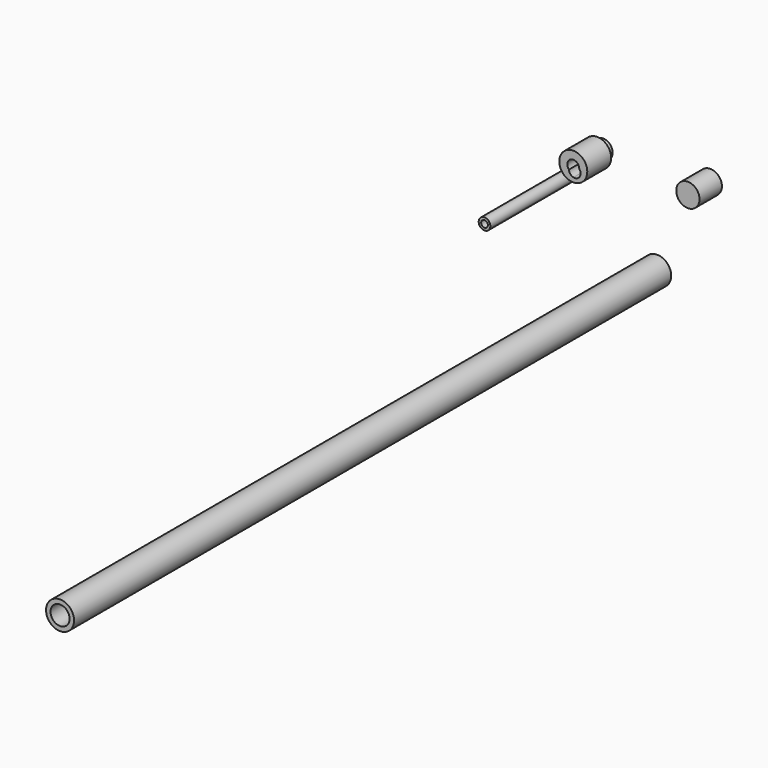
from build123d import *

# Parameters (mm, degrees)
F0_R     = 9.525
F0_R_2   = 6.477
F1_DEPTH = 508
F2_DEPTH = 19.05
F0_R_3   = 7.9248
F3_DEPTH = 6.35
F4_DEPTH = 5.588
F5_START = 5.08
F5_DEPTH = 20.32
F6_DEPTH = 6.35
F7_DEPTH = 5.588
F0_R_4   = 3.9624
F0_R_5   = 2.286
F8_DEPTH = 76.2


with BuildPart() as f1:
    # F0 (on Front) → F1 (new body)
    with BuildSketch(Plane.XZ):
        Circle(F0_R)
        Circle(F0_R_2, mode=Mode.SUBTRACT)
    extrude(amount=F1_DEPTH)


with BuildPart() as f2:
    # F0 (on Front) → F2 (new body)
    with BuildSketch(Plane.XZ):
        with BuildLine():
            ThreePointArc((-32.547757087, 55.8320304582), (-30.8912183046, 58.0386997075), (-30.3034840207, 60.7346370816))
            ThreePointArc((-30.3034840207, 60.7346370816), (-41.4096977129, 65.2647485143), (-36.6403404641, 54.2591534098))
            ThreePointArc((-36.6403404641, 54.2591534098), (-38.8124164864, 55.5783024206), (-39.7364239778, 57.9456381626))
            ThreePointArc((-39.7364239778, 57.9456381626), (-38.2810099309, 64.5114767648), (-32.7164840207, 60.7346370816))
            ThreePointArc((-32.7164840207, 60.7346370816), (-32.7167413759, 60.6889017907), (-32.7175134089, 60.6431722922))
            ThreePointArc((-32.7175134089, 60.6431722922), (-32.0480038214, 59.4632357327), (-31.815759049, 58.1266147176))
            ThreePointArc((-31.815759049, 58.1266147176), (-32.0031915992, 56.9223578875), (-32.547757087, 55.8320304582))
        make_face()
    extrude(amount=F2_DEPTH)

    # F3 (add): a face of the model
    f3_faces = [f2.faces().sort_by_distance(p)[0] for p in [
        (-31.6351399696, -19.05, 58.2727969972),
    ]]
    extrude(f3_faces, amount=F3_DEPTH)

    # F0 (on Front) → F4 (join)
    with BuildSketch(Plane.XZ):
        with BuildLine():
            ThreePointArc((-39.394098101, 59.7469845926), (-39.6708899318, 58.8663849751), (-39.7364239778, 57.9456381626))
            ThreePointArc((-39.7364239778, 57.9456381626), (-38.7633091915, 57.1871731506), (-37.6074454536, 56.7556634968))
            ThreePointArc((-37.6074454536, 56.7556634968), (-37.9658706012, 57.4635052515), (-38.0607601848, 58.2512263335))
            ThreePointArc((-38.0607601848, 58.2512263335), (-38.8661298443, 58.8754658957), (-39.394098101, 59.7469845926))
        make_face()
        with BuildLine():
            ThreePointArc((-38.0607601848, 58.2512263335), (-37.9658706012, 57.4635052515), (-37.6074454536, 56.7556634968))
            ThreePointArc((-37.6074454536, 56.7556634968), (-35.3225567891, 56.9411500067), (-33.5015540619, 58.3336551314))
            ThreePointArc((-33.5015540619, 58.3336551314), (-33.7094444319, 59.0993509785), (-34.1665357868, 59.7478693123))
            ThreePointArc((-34.1665357868, 59.7478693123), (-35.778159049, 58.1266147176), (-38.0607601848, 58.2512263335))
        make_face()
        with BuildLine():
            ThreePointArc((-33.5015540619, 58.3336551314), (-32.9321930525, 59.4282096539), (-32.7175134089, 60.6431722922))
            ThreePointArc((-32.7175134089, 60.6431722922), (-33.3828274746, 61.2830368074), (-34.1781357417, 61.7516028799))
            ThreePointArc((-34.1781357417, 61.7516028799), (-34.0348149682, 61.252070608), (-33.9864840207, 60.7346370816))
            ThreePointArc((-33.9864840207, 60.7346370816), (-34.0318655163, 60.2331071052), (-34.1665357868, 59.7478693123))
            ThreePointArc((-34.1665357868, 59.7478693123), (-33.7094444319, 59.0993509785), (-33.5015540619, 58.3336551314))
        make_face()
        with BuildLine():
            ThreePointArc((-32.7164840207, 60.7346370816), (-38.2810099309, 64.5114767648), (-39.7364239778, 57.9456381626))
            ThreePointArc((-39.7364239778, 57.9456381626), (-39.6708899318, 58.8663849751), (-39.394098101, 59.7469845926))
            ThreePointArc((-39.394098101, 59.7469845926), (-37.7828089924, 63.3426594456), (-34.1781357417, 61.7516028799))
            ThreePointArc((-34.1781357417, 61.7516028799), (-33.3828274746, 61.2830368074), (-32.7175134089, 60.6431722922))
            ThreePointArc((-32.7175134089, 60.6431722922), (-32.7167413759, 60.6889017907), (-32.7164840207, 60.7346370816))
        make_face()
    extrude(amount=F4_DEPTH)

    # F0 (on Front) → F5 (join)
    with BuildSketch(Plane.XZ.offset(F5_START)):
        with Locations((-36.7804840207, 60.7346370816)):
            Circle(F0_R)
        with BuildLine():
            ThreePointArc((-36.6403404641, 54.2591534098), (-41.4096977129, 65.2647485143), (-30.3034840207, 60.7346370816))
            ThreePointArc((-30.3034840207, 60.7346370816), (-30.8912183046, 58.0386997075), (-32.547757087, 55.8320304582))
            ThreePointArc((-32.547757087, 55.8320304582), (-34.3566799981, 54.4279648196), (-36.6403404641, 54.2591534098))
        make_face(mode=Mode.SUBTRACT)
    extrude(amount=F5_DEPTH)

    # F0 (on Front) → F6 (join)
    with BuildSketch(Plane.XZ):
        with BuildLine():
            ThreePointArc((-39.7364239778, 57.9456381626), (-38.8124164864, 55.5783024206), (-36.6403404641, 54.2591534098))
            ThreePointArc((-36.6403404641, 54.2591534098), (-34.4569124953, 54.688767056), (-32.547757087, 55.8320304582))
            ThreePointArc((-32.547757087, 55.8320304582), (-32.0031915992, 56.9223578875), (-31.815759049, 58.1266147176))
            ThreePointArc((-31.815759049, 58.1266147176), (-32.0480038214, 59.4632357327), (-32.7175134089, 60.6431722922))
            ThreePointArc((-32.7175134089, 60.6431722922), (-32.9321930525, 59.4282096539), (-33.5015540619, 58.3336551314))
            ThreePointArc((-33.5015540619, 58.3336551314), (-33.4945090101, 58.2302414507), (-33.492159049, 58.1266147176))
            ThreePointArc((-33.492159049, 58.1266147176), (-35.0556470148, 55.9577965232), (-37.6074454536, 56.7556634968))
            ThreePointArc((-37.6074454536, 56.7556634968), (-38.7633091915, 57.1871731506), (-39.7364239778, 57.9456381626))
        make_face()
    extrude(amount=F6_DEPTH)

    # F0 (on Front) → F7 (join)
    with BuildSketch(Plane.XZ):
        with BuildLine():
            ThreePointArc((-33.5015540619, 58.3336551314), (-35.3225567891, 56.9411500067), (-37.6074454536, 56.7556634968))
            ThreePointArc((-37.6074454536, 56.7556634968), (-35.0556470148, 55.9577965232), (-33.492159049, 58.1266147176))
            ThreePointArc((-33.492159049, 58.1266147176), (-33.4945090101, 58.2302414507), (-33.5015540619, 58.3336551314))
        make_face()
    extrude(amount=F7_DEPTH)


with BuildPart() as f2b:
    # F0 (on Front) → F2, piece 2 (new body)
    with BuildSketch(Plane.XZ):
        with Locations((36.1323542893, 64.8185908794)):
            Circle(F0_R_3)
    extrude(amount=F2_DEPTH)


with BuildPart() as f8:
    # F0 (on Front) → F8 (new body)
    with BuildSketch(Plane.XZ):
        with Locations((-56.5628893673, 40.5541695654)):
            Circle(F0_R_4)
        with Locations((-56.5628893673, 40.5541695654)):
            Circle(F0_R_5, mode=Mode.SUBTRACT)
    extrude(amount=F8_DEPTH)


solid = Compound([f1.part, f2.part, f2b.part, f8.part])
